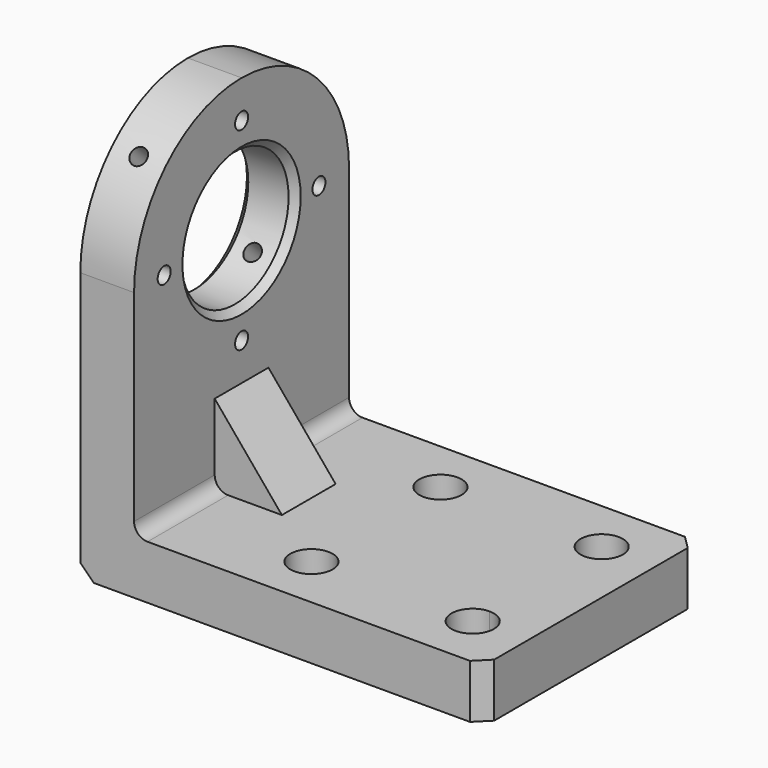
from build123d import *

# Parameters (mm, degrees)
F1_DEPTH  = 200
F2_R      = 15.75
F2_R_2    = 8.75
F3_DEPTH  = 20
F4_DEPTH  = 40.001
F6_DEPTH  = 89
F5_R      = 50
F7_DEPTH  = 221
F8_D      = 12.1
F9_W      = 50
F9_H      = 60
F10_DEPTH = 50
F12_DEPTH = 125.001
F13_R     = 10
F14_SIZE  = 10
F15_SIZE  = 5
F16_SIZE  = 10
F20_D     = 12.1


with BuildPart() as f1:
    # F0 (on Front) → F1 (new body)
    with BuildSketch(Plane.XZ):
        Polygon((-300, 0), (0, 0), (0, 40), (-260, 40), (-260, 300), (-300, 300), align=None)
    extrude(amount=-F1_DEPTH)

    # F2 (on face) → F3 (cut)
    with BuildSketch(Plane.XY.offset(40)):
        with Locations((-160, 160)):
            Circle(F2_R)
        with Locations((-160, 160)):
            Circle(F2_R_2, mode=Mode.SUBTRACT)
        with Locations((-160, 40)):
            Circle(F2_R)
        with Locations((-160, 40)):
            Circle(F2_R_2, mode=Mode.SUBTRACT)
        with BuildLine():
            ThreePointArc((-24.25, 40), (-28.8630681963, 51.1369318037), (-40, 55.75))
            ThreePointArc((-40, 55.75), (-51.1369318037, 28.8630681963), (-24.25, 40))
        make_face()
        with BuildLine():
            ThreePointArc((-31.25, 40), (-46.1871843354, 33.8128156646), (-40, 48.75))
            ThreePointArc((-40, 48.75), (-33.8128156646, 46.1871843354), (-31.25, 40))
        make_face(mode=Mode.SUBTRACT)
        with BuildLine():
            ThreePointArc((-24.25, 160), (-51.1369318037, 171.1369318037), (-40, 144.25))
            ThreePointArc((-40, 144.25), (-28.8630681963, 148.8630681963), (-24.25, 160))
        make_face()
        with BuildLine():
            ThreePointArc((-31.25, 160), (-33.8128156646, 153.8128156646), (-40, 151.25))
            ThreePointArc((-40, 151.25), (-46.1871843354, 166.1871843354), (-31.25, 160))
        make_face(mode=Mode.SUBTRACT)
    extrude(amount=-F3_DEPTH, mode=Mode.SUBTRACT)

    # F4 (cut, through all): faces of the model
    f4_faces = [f1.faces().sort_by_distance(p)[0] for p in [
        (-160, 160, 40),
        (-40, 160, 40),
        (-40, 40, 40),
        (-160, 40, 40),
    ]]
    extrude(f4_faces, amount=-F4_DEPTH, mode=Mode.SUBTRACT)

    # F5 (on face) → F6 (cut)
    with BuildSketch(Plane.YZ.offset(-260)):
        with BuildLine():
            ThreePointArc((0, 200), (29.2893218813, 270.7106781187), (100, 300))
            Line((100, 300), (0, 300))
            Line((0, 300), (0, 200))
        make_face()
        with BuildLine():
            ThreePointArc((100, 300), (170.7106781187, 270.7106781187), (200, 200))
            Line((200, 200), (200, 300))
            Line((200, 300), (100, 300))
        make_face()
    extrude(amount=-F6_DEPTH, mode=Mode.SUBTRACT)

    # F5 (on face) → F7 (cut)
    with BuildSketch(Plane.YZ.offset(-260)):
        with Locations((100, 200)):
            Circle(F5_R)
    extrude(amount=-F7_DEPTH, mode=Mode.SUBTRACT)

    # F8 (through all)
    with Locations(Plane.YZ.offset(-260)):
        with Locations((28, 200), (100, 272), (172, 200), (100, 128)):
            Hole(F8_D / 2)

    # F9 (on face) → F10 (join)
    with BuildSketch(Plane.YZ.offset(-260)):
        with Locations((100, 70)):
            Rectangle(F9_W, F9_H)
    extrude(amount=F10_DEPTH)

    # F11 (on face) → F12 (cut, through all)
    with BuildSketch(Plane.XZ.offset(-75)):
        Polygon((-210, 100), (-260, 100), (-210, 40), align=None)
    extrude(amount=-F12_DEPTH, mode=Mode.SUBTRACT)

    # F13
    f13_edges = [f1.edges().sort_by_distance(p)[0] for p in [
        (-260, 37.5, 40),
        (-260, 162.5, 40),
    ]]
    fillet(f13_edges, radius=F13_R)

    # F14
    f14_edges = [f1.edges().sort_by_distance(p)[0] for p in [
        (0, 0, 20),
        (0, 200, 20),
    ]]
    chamfer(f14_edges, length=F14_SIZE)

    # F15
    f15_edges = [f1.edges().sort_by_distance(p)[0] for p in [
        (-260, 50, 200),
        (-300, 50, 200),
    ]]
    chamfer(f15_edges, length=F15_SIZE)

    # F16
    f16_edges = [f1.edges().sort_by_distance(p)[0] for p in [
        (-300, 100, 0),
    ]]
    chamfer(f16_edges, length=F16_SIZE)

    # F20 (through all)
    with Locations(Plane(origin=(0, -120.7106781187, 120.7106781187), x_dir=(1, 0, 0), z_dir=(0, -0.7071067812, 0.7071067812))):
        with Locations((-280, 212.132034356)):
            Hole(F20_D / 2)


solid = f1.part
